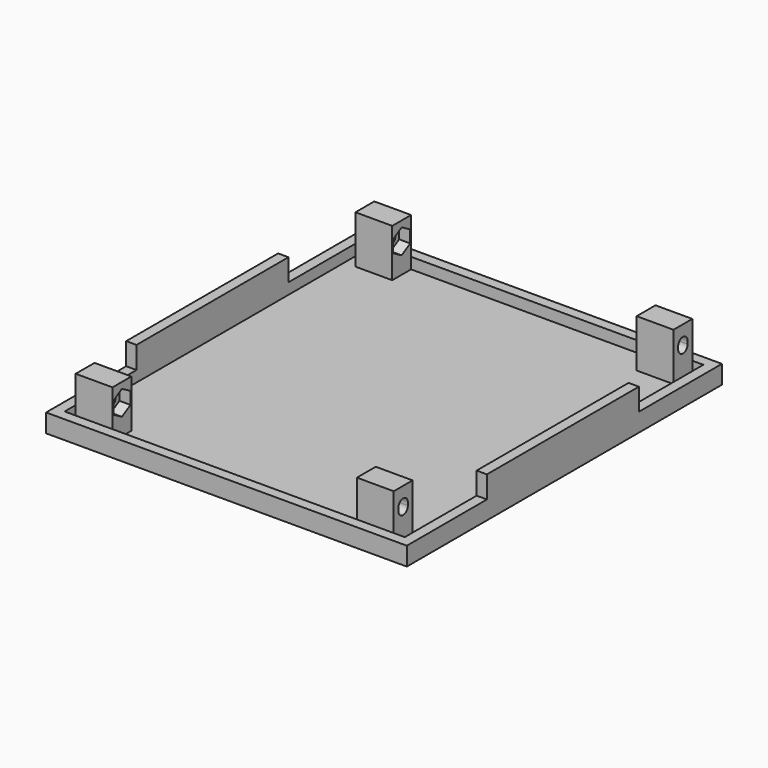
from build123d import *

# Parameters (mm, degrees)
SKETCH017_W     = 98
SKETCH017_H     = 107
PAD015_DEPTH    = 5
SKETCH018_W     = 92.4
SKETCH018_H     = 101.4
POCKET_DEPTH    = 3
SKETCH019_W     = 2.8
SKETCH019_H     = 51.6
PAD016_DEPTH    = 6
SKETCH020_W     = 10
SKETCH020_H     = 6.4
PAD017_DEPTH    = 13
POCKET001_DEPTH = 92.201
POCKET019_DEPTH = 3
POCKET020_DEPTH = 3


with BuildPart() as part:
    # Sketch017 → Pad015 (new body)
    with BuildSketch(Plane.XY.offset(-22)):
        with Locations((0.5, 0.5)):
            Rectangle(SKETCH017_W, SKETCH017_H)
    extrude(amount=PAD015_DEPTH)

    # Sketch018 (on Face6 of Pad015) → Pocket (cut)
    with BuildSketch(Plane.XY.offset(-17)):
        with Locations((0.5, 0.5)):
            Rectangle(SKETCH018_W, SKETCH018_H)
    extrude(amount=-POCKET_DEPTH, mode=Mode.SUBTRACT)

    # Sketch019 (on Face5 of Pocket) → Pad016 (join)
    with BuildSketch(Plane.XY.offset(-17)):
        with Locations((-47.1, 0)):
            Rectangle(SKETCH019_W, SKETCH019_H)
        with Locations((48.1, 0)):
            Rectangle(SKETCH019_W, SKETCH019_H)
    extrude(amount=PAD016_DEPTH)

    # Sketch020 (on Face21 of Pad016) → Pad017 (join)
    with BuildSketch(Plane.XY.offset(-20)):
        with Locations((-37.7, 48)):
            Rectangle(SKETCH020_W, SKETCH020_H)
        with Locations((38.7, 48)):
            Rectangle(SKETCH020_W, SKETCH020_H)
        with Locations((-37.7, -47)):
            Rectangle(SKETCH020_W, SKETCH020_H)
        with Locations((38.7, -47)):
            Rectangle(SKETCH020_W, SKETCH020_H)
    extrude(amount=PAD017_DEPTH)

    # Sketch021 (on Face37 of Pad017) → Pocket001 (cut, through all)
    with BuildSketch(Plane.YZ.offset(43.7)):
        with BuildLine():
            ThreePointArc((-45.4, -11.6), (-47, -10), (-48.6, -11.6))
            Line((-48.6, -11.6), (-48.6, -12.4))
            ThreePointArc((-48.6, -12.4), (-47, -14), (-45.4, -12.4))
            Line((-45.4, -11.6), (-45.4, -12.4))
        make_face()
        with BuildLine():
            ThreePointArc((49.6, -11.6), (48, -10), (46.4, -11.6))
            Line((46.4, -11.6), (46.4, -12.4))
            ThreePointArc((46.4, -12.4), (48, -14), (49.6, -12.4))
            Line((49.6, -11.6), (49.6, -12.4))
        make_face()
    extrude(amount=-POCKET001_DEPTH, mode=Mode.SUBTRACT)

    # Sketch055 (on Face40 of Pocket001) → Pocket019 (cut)
    with BuildSketch(Plane.YZ.offset(-32.7)):
        Polygon((-49.9, -13.674316), (-47, -15.348632), (-44.1, -13.674316), (-44.1, -10.325684), (-47, -8.651368), (-49.9, -10.325684), align=None)
        Polygon((48, -15.348632), (50.9, -13.674316), (50.9, -10.325684), (48, -8.651368), (45.1, -10.325684), (45.1, -13.674316), align=None)
    extrude(amount=-POCKET019_DEPTH, mode=Mode.SUBTRACT)

    # Sketch056 (on Face39 of Pocket019) → Pocket020 (cut)
    with BuildSketch(Plane(origin=(33.7, 0, 0), x_dir=(0, -1, 0), z_dir=(-1, 0, 0))):
        Polygon((47, -15.348632), (49.9, -13.674316), (49.9, -10.325684), (47, -8.651368), (44.1, -10.325684), (44.1, -13.674316), align=None)
        Polygon((-45.1, -13.674316), (-45.1, -10.325684), (-48, -8.651368), (-50.9, -10.325684), (-50.9, -13.674316), (-48, -15.348632), align=None)
    extrude(amount=-POCKET020_DEPTH, mode=Mode.SUBTRACT)


solid = part.part
